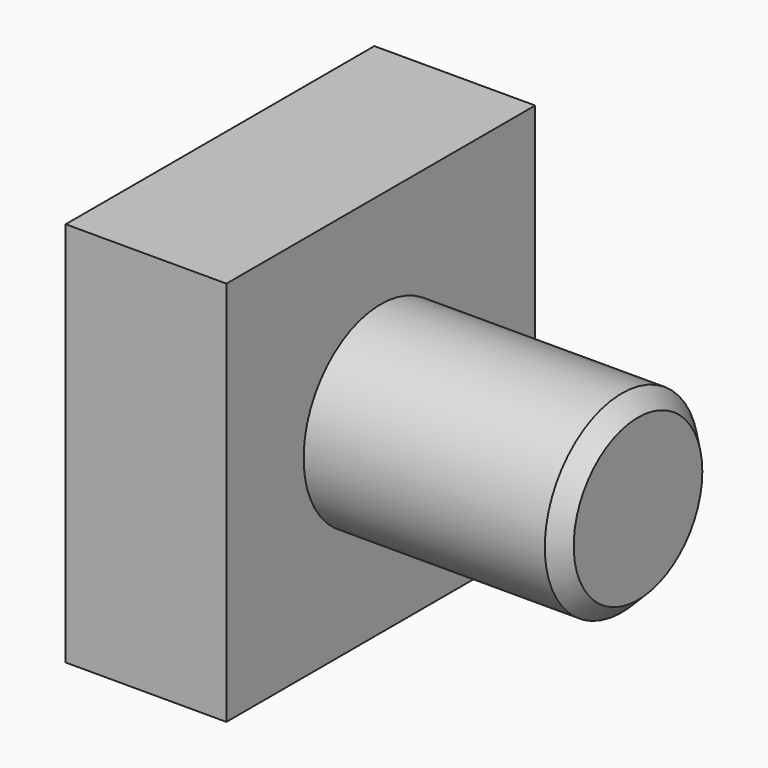
from build123d import *

# Parameters (mm, degrees)
F0_W     = 12
F0_H     = 12
F1_DEPTH = 5
F2_R     = 3
F3_DEPTH = 8
F4_SIZE  = 0.5


with BuildPart() as f1:
    # F0 (on Right) → F1 (new body)
    with BuildSketch(Plane.YZ):
        Rectangle(F0_W, F0_H)
    extrude(amount=F1_DEPTH)

    # F2 (on face) → F3 (join)
    with BuildSketch(Plane.YZ.offset(5)):
        Circle(F2_R)
    extrude(amount=F3_DEPTH)

    # F4
    f4_edges = [f1.edges().sort_by_distance(p)[0] for p in [
        (13, -3, 0),
    ]]
    chamfer(f4_edges, length=F4_SIZE)


solid = f1.part
